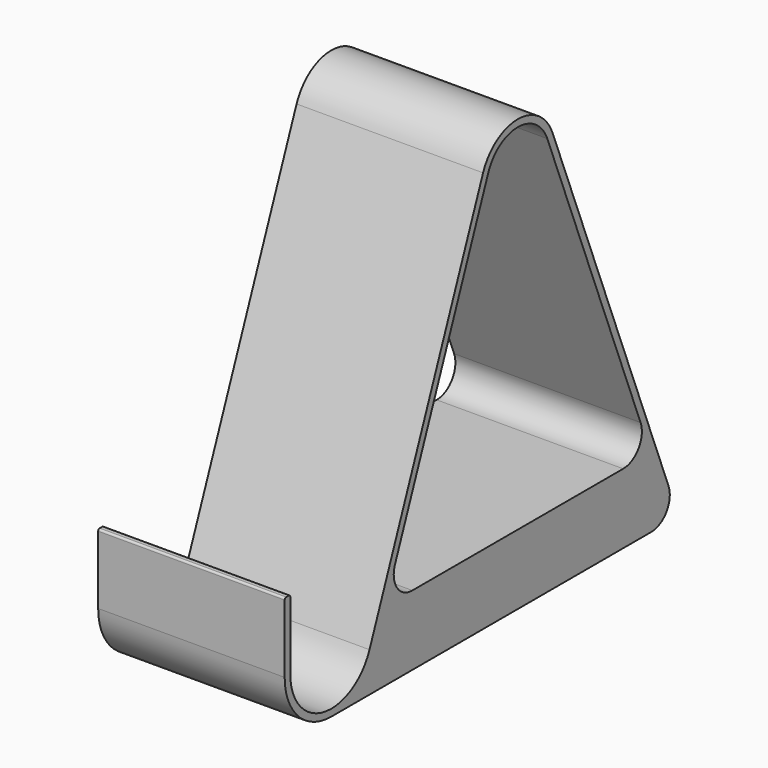
from build123d import *

# Parameters (mm, degrees)
F1_DEPTH = 40


with BuildPart() as f1:
    # F0 (on Right) → F1 (new body)
    with BuildSketch(Plane.YZ):
        with BuildLine():
            Line((-12.5, 14.6), (-12.5, 0))
            ThreePointArc((-12.5, 0), (-8.838835, -8.838835), (0, -12.5))
            Line((0, -12.5), (85.754689, -12.5))
            ThreePointArc((85.754689, -12.5), (89.885373, -10.317348), (90.409718, -5.674979))
            Line((90.409718, -5.674979), (59.310059, 73.650042))
            ThreePointArc((59.310059, 73.650042), (50, 80), (40.689941, 73.650042))
            Line((40.689941, 73.650042), (10.241065, -4.015046))
            ThreePointArc((10.241065, -4.015046), (-2.043072, -10.808601), (-11, 0))
            Line((-11, 0), (-11, 14.6))
            ThreePointArc((-11, 14.6), (-11.117157, 14.882843), (-11.4, 15))
            Line((-11.4, 15), (-12.1, 15))
            ThreePointArc((-12.1, 15), (-12.382843, 14.882843), (-12.5, 14.6))
        make_face()
        with BuildLine():
            ThreePointArc((42.08645, 73.102536), (50, 78.5), (57.91355, 73.102536))
            Line((57.91355, 73.102536), (82.917754, 9.325021))
            ThreePointArc((82.917754, 9.325021), (82.393408, 4.682652), (78.262724, 2.5))
            Line((78.262724, 2.5), (21.737276, 2.5))
            ThreePointArc((21.737276, 2.5), (17.606592, 4.682652), (17.082246, 9.325021))
            Line((17.082246, 9.325021), (42.08645, 73.102536))
        make_face(mode=Mode.SUBTRACT)
    extrude(amount=-F1_DEPTH)


solid = f1.part
